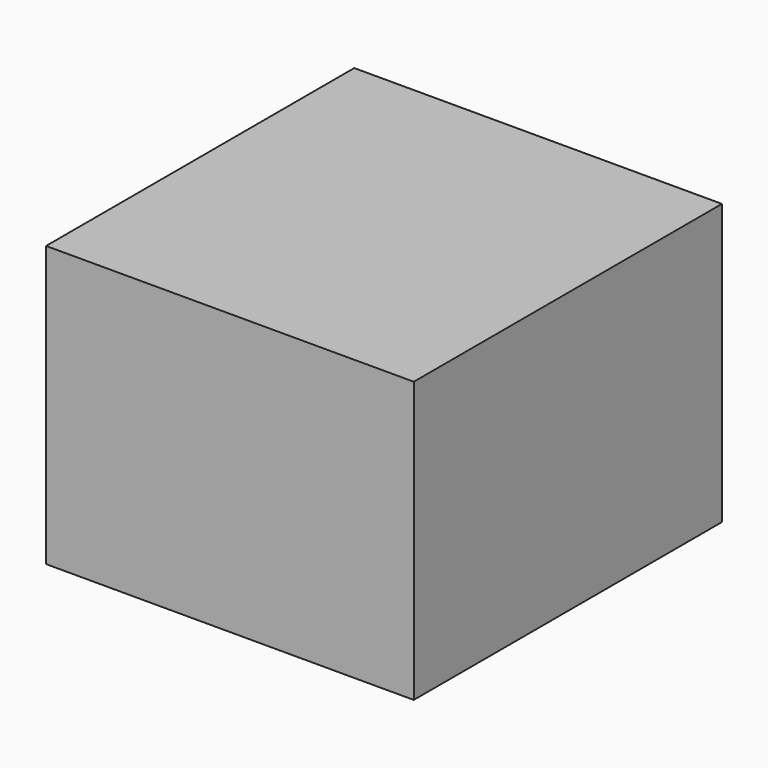
from build123d import *

# Parameters (mm, degrees)
SKETCH_W  = 105
SKETCH_H  = 80
PAD_DEPTH = 55


with BuildPart() as part:
    # Sketch → Pad (new body, symmetric)
    with BuildSketch(Plane.XZ):
        Rectangle(SKETCH_W, SKETCH_H)
    extrude(amount=PAD_DEPTH, both=True)


solid = part.part
